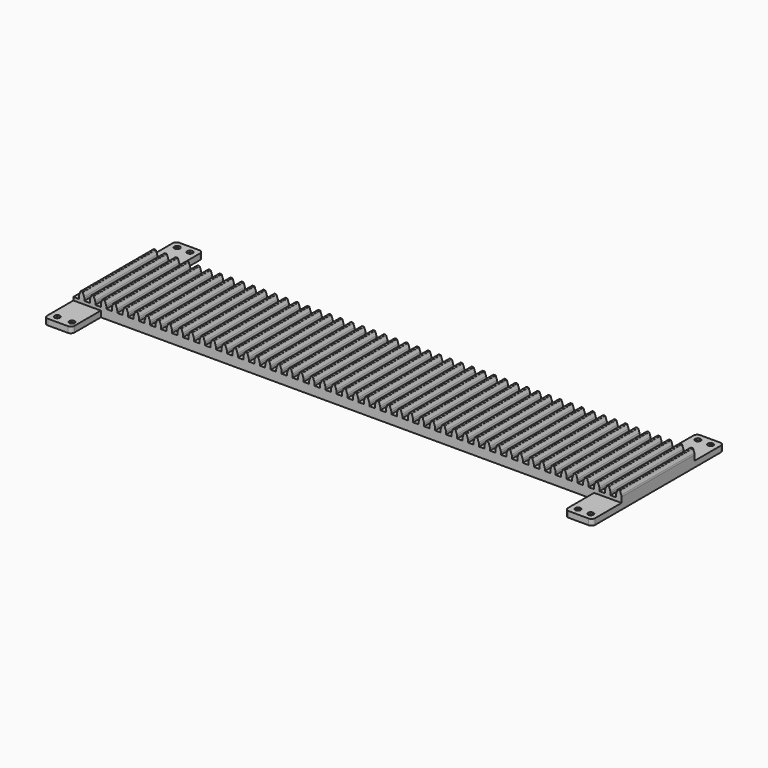
from build123d import *

# Parameters (mm, degrees)
F1_DEPTH  = 127
F2_W      = 38.1
F2_H      = 8.255
F3_DEPTH  = 50.8
F4_R      = 2.54
F5_DEPTH  = 8.256
F6_R      = 3.81
F7_DEPTH  = 2.54
F8_R      = 5.08
F9_W      = 38.1
F9_H      = 8.255
F10_DEPTH = 50.8
F11_R     = 2.54
F12_DEPTH = 8.256
F13_R     = 3.81
F14_DEPTH = 2.54
F15_R     = 5.08
F16_W     = 38.1
F16_H     = 8.255
F17_DEPTH = 50.8
F18_R     = 2.54
F19_DEPTH = 8.256
F20_R     = 3.81
F20_R_2   = 2.54
F21_DEPTH = 2.54
F22_R     = 5.08
F23_W     = 38.1
F23_H     = 8.255
F24_DEPTH = 50.8
F25_R     = 2.54
F26_DEPTH = 8.256
F27_R     = 3.81
F28_DEPTH = 2.54
F29_R     = 5.08


with BuildPart() as f1:
    # F0 (on Front) → F1 (new body)
    with BuildSketch(Plane.XZ):
        Polygon((0, 12.7), (0, 0), (762, 0), (762, 12.7), (754.38, 12.7), (746.76, 12.7), (739.14, 12.7), (731.52, 12.7), (723.9, 12.7), (716.28, 12.7), (708.66, 12.7), (701.04, 12.7), (693.42, 12.7), (685.8, 12.7), (678.18, 12.7), (670.56, 12.7), (662.94, 12.7), (655.32, 12.7), (647.7, 12.7), (640.08, 12.7), (632.46, 12.7), (624.84, 12.7), (617.22, 12.7), (609.6, 12.7), (601.98, 12.7), (594.36, 12.7), (586.74, 12.7), (579.12, 12.7), (571.5, 12.7), (563.88, 12.7), (556.26, 12.7), (548.64, 12.7), (541.02, 12.7), (533.4, 12.7), (525.78, 12.7), (518.16, 12.7), (510.54, 12.7), (502.92, 12.7), (495.3, 12.7), (487.68, 12.7), (480.06, 12.7), (472.44, 12.7), (464.82, 12.7), (457.2, 12.7), (449.58, 12.7), (441.96, 12.7), (434.34, 12.7), (426.72, 12.7), (419.1, 12.7), (411.48, 12.7), (403.86, 12.7), (396.24, 12.7), (388.62, 12.7), (381, 12.7), (373.38, 12.7), (365.76, 12.7), (358.14, 12.7), (350.52, 12.7), (342.9, 12.7), (335.28, 12.7), (327.66, 12.7), (320.04, 12.7), (312.42, 12.7), (304.8, 12.7), (297.18, 12.7), (289.56, 12.7), (281.94, 12.7), (274.32, 12.7), (266.7, 12.7), (259.08, 12.7), (251.46, 12.7), (243.84, 12.7), (236.22, 12.7), (228.6, 12.7), (220.98, 12.7), (213.36, 12.7), (205.74, 12.7), (198.12, 12.7), (190.5, 12.7), (182.88, 12.7), (175.26, 12.7), (167.64, 12.7), (160.02, 12.7), (152.4, 12.7), (144.78, 12.7), (137.16, 12.7), (129.54, 12.7), (121.92, 12.7), (114.3, 12.7), (106.68, 12.7), (99.06, 12.7), (91.44, 12.7), (83.82, 12.7), (76.2, 12.7), (68.58, 12.7), (60.96, 12.7), (53.34, 12.7), (45.72, 12.7), (38.1, 12.7), (30.48, 12.7), (22.86, 12.7), (15.24, 12.7), (7.62, 12.7), align=None)
        with BuildLine():
            Line((754.38, 12.7), (762, 12.7))
            Line((762, 12.7), (762, 15.542724))
            ThreePointArc((762, 15.542724), (761.903529, 16.64539), (761.617048, 17.714552))
            Line((761.617048, 17.714552), (759.934349, 22.337728))
            ThreePointArc((759.934349, 22.337728), (759.643745, 22.716452), (759.188468, 22.86))
            Line((759.188468, 22.86), (758.19, 22.86))
            Line((758.19, 22.86), (757.191532, 22.86))
            ThreePointArc((757.191532, 22.86), (756.736255, 22.716452), (756.445651, 22.337728))
            Line((756.445651, 22.337728), (754.762952, 17.714552))
            ThreePointArc((754.762952, 17.714552), (754.476471, 16.64539), (754.38, 15.542724))
            Line((754.38, 15.542724), (754.38, 12.7))
        make_face()
        with BuildLine():
            Line((7.62, 15.542724), (7.62, 12.7))
            Line((7.62, 12.7), (15.24, 12.7))
            Line((15.24, 12.7), (15.24, 15.542724))
            ThreePointArc((15.24, 15.542724), (15.143529, 16.64539), (14.857048, 17.714552))
            Line((14.857048, 17.714552), (13.174349, 22.337728))
            ThreePointArc((13.174349, 22.337728), (12.883745, 22.716452), (12.428468, 22.86))
            Line((12.428468, 22.86), (11.43, 22.86))
            Line((11.43, 22.86), (10.431532, 22.86))
            ThreePointArc((10.431532, 22.86), (9.976255, 22.716452), (9.685651, 22.337728))
            Line((9.685651, 22.337728), (8.002952, 17.714552))
            ThreePointArc((8.002952, 17.714552), (7.716471, 16.64539), (7.62, 15.542724))
        make_face()
        with BuildLine():
            Line((739.14, 12.7), (746.76, 12.7))
            Line((746.76, 12.7), (746.76, 15.542724))
            ThreePointArc((746.76, 15.542724), (746.663529, 16.64539), (746.377048, 17.714552))
            Line((746.377048, 17.714552), (744.694349, 22.337728))
            ThreePointArc((744.694349, 22.337728), (744.403745, 22.716452), (743.948468, 22.86))
            Line((743.948468, 22.86), (742.95, 22.86))
            Line((742.95, 22.86), (741.951532, 22.86))
            ThreePointArc((741.951532, 22.86), (741.496255, 22.716452), (741.205651, 22.337728))
            Line((741.205651, 22.337728), (739.522952, 17.714552))
            ThreePointArc((739.522952, 17.714552), (739.236471, 16.64539), (739.14, 15.542724))
            Line((739.14, 15.542724), (739.14, 12.7))
        make_face()
        with BuildLine():
            Line((22.86, 15.542724), (22.86, 12.7))
            Line((22.86, 12.7), (30.48, 12.7))
            Line((30.48, 12.7), (30.48, 15.542724))
            ThreePointArc((30.48, 15.542724), (30.383529, 16.64539), (30.097048, 17.714552))
            Line((30.097048, 17.714552), (28.414349, 22.337728))
            ThreePointArc((28.414349, 22.337728), (28.123745, 22.716452), (27.668468, 22.86))
            Line((27.668468, 22.86), (26.67, 22.86))
            Line((26.67, 22.86), (25.671532, 22.86))
            ThreePointArc((25.671532, 22.86), (25.216255, 22.716452), (24.925651, 22.337728))
            Line((24.925651, 22.337728), (23.242952, 17.714552))
            ThreePointArc((23.242952, 17.714552), (22.956471, 16.64539), (22.86, 15.542724))
        make_face()
        with BuildLine():
            Line((723.9, 12.7), (731.52, 12.7))
            Line((731.52, 12.7), (731.52, 15.542724))
            ThreePointArc((731.52, 15.542724), (731.423529, 16.64539), (731.137048, 17.714552))
            Line((731.137048, 17.714552), (729.454349, 22.337728))
            ThreePointArc((729.454349, 22.337728), (729.163745, 22.716452), (728.708468, 22.86))
            Line((728.708468, 22.86), (727.71, 22.86))
            Line((727.71, 22.86), (726.711532, 22.86))
            ThreePointArc((726.711532, 22.86), (726.256255, 22.716452), (725.965651, 22.337728))
            Line((725.965651, 22.337728), (724.282952, 17.714552))
            ThreePointArc((724.282952, 17.714552), (723.996471, 16.64539), (723.9, 15.542724))
            Line((723.9, 15.542724), (723.9, 12.7))
        make_face()
        with BuildLine():
            Line((38.1, 15.542724), (38.1, 12.7))
            Line((38.1, 12.7), (45.72, 12.7))
            Line((45.72, 12.7), (45.72, 15.542724))
            ThreePointArc((45.72, 15.542724), (45.623529, 16.64539), (45.337048, 17.714552))
            Line((45.337048, 17.714552), (43.654349, 22.337728))
            ThreePointArc((43.654349, 22.337728), (43.363745, 22.716452), (42.908468, 22.86))
            Line((42.908468, 22.86), (41.91, 22.86))
            Line((41.91, 22.86), (40.911532, 22.86))
            ThreePointArc((40.911532, 22.86), (40.456255, 22.716452), (40.165651, 22.337728))
            Line((40.165651, 22.337728), (38.482952, 17.714552))
            ThreePointArc((38.482952, 17.714552), (38.196471, 16.64539), (38.1, 15.542724))
        make_face()
        with BuildLine():
            Line((708.66, 12.7), (716.28, 12.7))
            Line((716.28, 12.7), (716.28, 15.542724))
            ThreePointArc((716.28, 15.542724), (716.183529, 16.64539), (715.897048, 17.714552))
            Line((715.897048, 17.714552), (714.214349, 22.337728))
            ThreePointArc((714.214349, 22.337728), (713.923745, 22.716452), (713.468468, 22.86))
            Line((713.468468, 22.86), (712.47, 22.86))
            Line((712.47, 22.86), (711.471532, 22.86))
            ThreePointArc((711.471532, 22.86), (711.016255, 22.716452), (710.725651, 22.337728))
            Line((710.725651, 22.337728), (709.042952, 17.714552))
            ThreePointArc((709.042952, 17.714552), (708.756471, 16.64539), (708.66, 15.542724))
            Line((708.66, 15.542724), (708.66, 12.7))
        make_face()
        with BuildLine():
            Line((53.34, 15.542724), (53.34, 12.7))
            Line((53.34, 12.7), (60.96, 12.7))
            Line((60.96, 12.7), (60.96, 15.542724))
            ThreePointArc((60.96, 15.542724), (60.863529, 16.64539), (60.577048, 17.714552))
            Line((60.577048, 17.714552), (58.894349, 22.337728))
            ThreePointArc((58.894349, 22.337728), (58.603745, 22.716452), (58.148468, 22.86))
            Line((58.148468, 22.86), (57.15, 22.86))
            Line((57.15, 22.86), (56.151532, 22.86))
            ThreePointArc((56.151532, 22.86), (55.696255, 22.716452), (55.405651, 22.337728))
            Line((55.405651, 22.337728), (53.722952, 17.714552))
            ThreePointArc((53.722952, 17.714552), (53.436471, 16.64539), (53.34, 15.542724))
        make_face()
        with BuildLine():
            Line((693.42, 12.7), (701.04, 12.7))
            Line((701.04, 12.7), (701.04, 15.542724))
            ThreePointArc((701.04, 15.542724), (700.943529, 16.64539), (700.657048, 17.714552))
            Line((700.657048, 17.714552), (698.974349, 22.337728))
            ThreePointArc((698.974349, 22.337728), (698.683745, 22.716452), (698.228468, 22.86))
            Line((698.228468, 22.86), (697.23, 22.86))
            Line((697.23, 22.86), (696.231532, 22.86))
            ThreePointArc((696.231532, 22.86), (695.776255, 22.716452), (695.485651, 22.337728))
            Line((695.485651, 22.337728), (693.802952, 17.714552))
            ThreePointArc((693.802952, 17.714552), (693.516471, 16.64539), (693.42, 15.542724))
            Line((693.42, 15.542724), (693.42, 12.7))
        make_face()
        with BuildLine():
            Line((68.58, 15.542724), (68.58, 12.7))
            Line((68.58, 12.7), (76.2, 12.7))
            Line((76.2, 12.7), (76.2, 15.542724))
            ThreePointArc((76.2, 15.542724), (76.103529, 16.64539), (75.817048, 17.714552))
            Line((75.817048, 17.714552), (74.134349, 22.337728))
            ThreePointArc((74.134349, 22.337728), (73.843745, 22.716452), (73.388468, 22.86))
            Line((73.388468, 22.86), (72.39, 22.86))
            Line((72.39, 22.86), (71.391532, 22.86))
            ThreePointArc((71.391532, 22.86), (70.936255, 22.716452), (70.645651, 22.337728))
            Line((70.645651, 22.337728), (68.962952, 17.714552))
            ThreePointArc((68.962952, 17.714552), (68.676471, 16.64539), (68.58, 15.542724))
        make_face()
        with BuildLine():
            Line((678.18, 12.7), (685.8, 12.7))
            Line((685.8, 12.7), (685.8, 15.542724))
            ThreePointArc((685.8, 15.542724), (685.703529, 16.64539), (685.417048, 17.714552))
            Line((685.417048, 17.714552), (683.734349, 22.337728))
            ThreePointArc((683.734349, 22.337728), (683.443745, 22.716452), (682.988468, 22.86))
            Line((682.988468, 22.86), (681.99, 22.86))
            Line((681.99, 22.86), (680.991532, 22.86))
            ThreePointArc((680.991532, 22.86), (680.536255, 22.716452), (680.245651, 22.337728))
            Line((680.245651, 22.337728), (678.562952, 17.714552))
            ThreePointArc((678.562952, 17.714552), (678.276471, 16.64539), (678.18, 15.542724))
            Line((678.18, 15.542724), (678.18, 12.7))
        make_face()
        with BuildLine():
            Line((83.82, 15.542724), (83.82, 12.7))
            Line((83.82, 12.7), (91.44, 12.7))
            Line((91.44, 12.7), (91.44, 15.542724))
            ThreePointArc((91.44, 15.542724), (91.343529, 16.64539), (91.057048, 17.714552))
            Line((91.057048, 17.714552), (89.374349, 22.337728))
            ThreePointArc((89.374349, 22.337728), (89.083745, 22.716452), (88.628468, 22.86))
            Line((88.628468, 22.86), (87.63, 22.86))
            Line((87.63, 22.86), (86.631532, 22.86))
            ThreePointArc((86.631532, 22.86), (86.176255, 22.716452), (85.885651, 22.337728))
            Line((85.885651, 22.337728), (84.202952, 17.714552))
            ThreePointArc((84.202952, 17.714552), (83.916471, 16.64539), (83.82, 15.542724))
        make_face()
        with BuildLine():
            Line((662.94, 12.7), (670.56, 12.7))
            Line((670.56, 12.7), (670.56, 15.542724))
            ThreePointArc((670.56, 15.542724), (670.463529, 16.64539), (670.177048, 17.714552))
            Line((670.177048, 17.714552), (668.494349, 22.337728))
            ThreePointArc((668.494349, 22.337728), (668.203745, 22.716452), (667.748468, 22.86))
            Line((667.748468, 22.86), (666.75, 22.86))
            Line((666.75, 22.86), (665.751532, 22.86))
            ThreePointArc((665.751532, 22.86), (665.296255, 22.716452), (665.005651, 22.337728))
            Line((665.005651, 22.337728), (663.322952, 17.714552))
            ThreePointArc((663.322952, 17.714552), (663.036471, 16.64539), (662.94, 15.542724))
            Line((662.94, 15.542724), (662.94, 12.7))
        make_face()
        with BuildLine():
            Line((99.06, 15.542724), (99.06, 12.7))
            Line((99.06, 12.7), (106.68, 12.7))
            Line((106.68, 12.7), (106.68, 15.542724))
            ThreePointArc((106.68, 15.542724), (106.583529, 16.64539), (106.297048, 17.714552))
            Line((106.297048, 17.714552), (104.614349, 22.337728))
            ThreePointArc((104.614349, 22.337728), (104.323745, 22.716452), (103.868468, 22.86))
            Line((103.868468, 22.86), (102.87, 22.86))
            Line((102.87, 22.86), (101.871532, 22.86))
            ThreePointArc((101.871532, 22.86), (101.416255, 22.716452), (101.125651, 22.337728))
            Line((101.125651, 22.337728), (99.442952, 17.714552))
            ThreePointArc((99.442952, 17.714552), (99.156471, 16.64539), (99.06, 15.542724))
        make_face()
        with BuildLine():
            Line((647.7, 12.7), (655.32, 12.7))
            Line((655.32, 12.7), (655.32, 15.542724))
            ThreePointArc((655.32, 15.542724), (655.223529, 16.64539), (654.937048, 17.714552))
            Line((654.937048, 17.714552), (653.254349, 22.337728))
            ThreePointArc((653.254349, 22.337728), (652.963745, 22.716452), (652.508468, 22.86))
            Line((652.508468, 22.86), (651.51, 22.86))
            Line((651.51, 22.86), (650.511532, 22.86))
            ThreePointArc((650.511532, 22.86), (650.056255, 22.716452), (649.765651, 22.337728))
            Line((649.765651, 22.337728), (648.082952, 17.714552))
            ThreePointArc((648.082952, 17.714552), (647.796471, 16.64539), (647.7, 15.542724))
            Line((647.7, 15.542724), (647.7, 12.7))
        make_face()
        with BuildLine():
            Line((114.3, 15.542724), (114.3, 12.7))
            Line((114.3, 12.7), (121.92, 12.7))
            Line((121.92, 12.7), (121.92, 15.542724))
            ThreePointArc((121.92, 15.542724), (121.823529, 16.64539), (121.537048, 17.714552))
            Line((121.537048, 17.714552), (119.854349, 22.337728))
            ThreePointArc((119.854349, 22.337728), (119.563745, 22.716452), (119.108468, 22.86))
            Line((119.108468, 22.86), (118.11, 22.86))
            Line((118.11, 22.86), (117.111532, 22.86))
            ThreePointArc((117.111532, 22.86), (116.656255, 22.716452), (116.365651, 22.337728))
            Line((116.365651, 22.337728), (114.682952, 17.714552))
            ThreePointArc((114.682952, 17.714552), (114.396471, 16.64539), (114.3, 15.542724))
        make_face()
        with BuildLine():
            Line((632.46, 12.7), (640.08, 12.7))
            Line((640.08, 12.7), (640.08, 15.542724))
            ThreePointArc((640.08, 15.542724), (639.983529, 16.64539), (639.697048, 17.714552))
            Line((639.697048, 17.714552), (638.014349, 22.337728))
            ThreePointArc((638.014349, 22.337728), (637.723745, 22.716452), (637.268468, 22.86))
            Line((637.268468, 22.86), (636.27, 22.86))
            Line((636.27, 22.86), (635.271532, 22.86))
            ThreePointArc((635.271532, 22.86), (634.816255, 22.716452), (634.525651, 22.337728))
            Line((634.525651, 22.337728), (632.842952, 17.714552))
            ThreePointArc((632.842952, 17.714552), (632.556471, 16.64539), (632.46, 15.542724))
            Line((632.46, 15.542724), (632.46, 12.7))
        make_face()
        with BuildLine():
            Line((129.54, 15.542724), (129.54, 12.7))
            Line((129.54, 12.7), (137.16, 12.7))
            Line((137.16, 12.7), (137.16, 15.542724))
            ThreePointArc((137.16, 15.542724), (137.063529, 16.64539), (136.777048, 17.714552))
            Line((136.777048, 17.714552), (135.094349, 22.337728))
            ThreePointArc((135.094349, 22.337728), (134.803745, 22.716452), (134.348468, 22.86))
            Line((134.348468, 22.86), (133.35, 22.86))
            Line((133.35, 22.86), (132.351532, 22.86))
            ThreePointArc((132.351532, 22.86), (131.896255, 22.716452), (131.605651, 22.337728))
            Line((131.605651, 22.337728), (129.922952, 17.714552))
            ThreePointArc((129.922952, 17.714552), (129.636471, 16.64539), (129.54, 15.542724))
        make_face()
        with BuildLine():
            Line((617.22, 12.7), (624.84, 12.7))
            Line((624.84, 12.7), (624.84, 15.542724))
            ThreePointArc((624.84, 15.542724), (624.743529, 16.64539), (624.457048, 17.714552))
            Line((624.457048, 17.714552), (622.774349, 22.337728))
            ThreePointArc((622.774349, 22.337728), (622.483745, 22.716452), (622.028468, 22.86))
            Line((622.028468, 22.86), (621.03, 22.86))
            Line((621.03, 22.86), (620.031532, 22.86))
            ThreePointArc((620.031532, 22.86), (619.576255, 22.716452), (619.285651, 22.337728))
            Line((619.285651, 22.337728), (617.602952, 17.714552))
            ThreePointArc((617.602952, 17.714552), (617.316471, 16.64539), (617.22, 15.542724))
            Line((617.22, 15.542724), (617.22, 12.7))
        make_face()
        with BuildLine():
            Line((144.78, 15.542724), (144.78, 12.7))
            Line((144.78, 12.7), (152.4, 12.7))
            Line((152.4, 12.7), (152.4, 15.542724))
            ThreePointArc((152.4, 15.542724), (152.303529, 16.64539), (152.017048, 17.714552))
            Line((152.017048, 17.714552), (150.334349, 22.337728))
            ThreePointArc((150.334349, 22.337728), (150.043745, 22.716452), (149.588468, 22.86))
            Line((149.588468, 22.86), (148.59, 22.86))
            Line((148.59, 22.86), (147.591532, 22.86))
            ThreePointArc((147.591532, 22.86), (147.136255, 22.716452), (146.845651, 22.337728))
            Line((146.845651, 22.337728), (145.162952, 17.714552))
            ThreePointArc((145.162952, 17.714552), (144.876471, 16.64539), (144.78, 15.542724))
        make_face()
        with BuildLine():
            Line((601.98, 12.7), (609.6, 12.7))
            Line((609.6, 12.7), (609.6, 15.542724))
            ThreePointArc((609.6, 15.542724), (609.503529, 16.64539), (609.217048, 17.714552))
            Line((609.217048, 17.714552), (607.534349, 22.337728))
            ThreePointArc((607.534349, 22.337728), (607.243745, 22.716452), (606.788468, 22.86))
            Line((606.788468, 22.86), (605.79, 22.86))
            Line((605.79, 22.86), (604.791532, 22.86))
            ThreePointArc((604.791532, 22.86), (604.336255, 22.716452), (604.045651, 22.337728))
            Line((604.045651, 22.337728), (602.362952, 17.714552))
            ThreePointArc((602.362952, 17.714552), (602.076471, 16.64539), (601.98, 15.542724))
            Line((601.98, 15.542724), (601.98, 12.7))
        make_face()
        with BuildLine():
            Line((160.02, 15.542724), (160.02, 12.7))
            Line((160.02, 12.7), (167.64, 12.7))
            Line((167.64, 12.7), (167.64, 15.542724))
            ThreePointArc((167.64, 15.542724), (167.543529, 16.64539), (167.257048, 17.714552))
            Line((167.257048, 17.714552), (165.574349, 22.337728))
            ThreePointArc((165.574349, 22.337728), (165.283745, 22.716452), (164.828468, 22.86))
            Line((164.828468, 22.86), (163.83, 22.86))
            Line((163.83, 22.86), (162.831532, 22.86))
            ThreePointArc((162.831532, 22.86), (162.376255, 22.716452), (162.085651, 22.337728))
            Line((162.085651, 22.337728), (160.402952, 17.714552))
            ThreePointArc((160.402952, 17.714552), (160.116471, 16.64539), (160.02, 15.542724))
        make_face()
        with BuildLine():
            Line((586.74, 12.7), (594.36, 12.7))
            Line((594.36, 12.7), (594.36, 15.542724))
            ThreePointArc((594.36, 15.542724), (594.263529, 16.64539), (593.977048, 17.714552))
            Line((593.977048, 17.714552), (592.294349, 22.337728))
            ThreePointArc((592.294349, 22.337728), (592.003745, 22.716452), (591.548468, 22.86))
            Line((591.548468, 22.86), (590.55, 22.86))
            Line((590.55, 22.86), (589.551532, 22.86))
            ThreePointArc((589.551532, 22.86), (589.096255, 22.716452), (588.805651, 22.337728))
            Line((588.805651, 22.337728), (587.122952, 17.714552))
            ThreePointArc((587.122952, 17.714552), (586.836471, 16.64539), (586.74, 15.542724))
            Line((586.74, 15.542724), (586.74, 12.7))
        make_face()
        with BuildLine():
            Line((175.26, 15.542724), (175.26, 12.7))
            Line((175.26, 12.7), (182.88, 12.7))
            Line((182.88, 12.7), (182.88, 15.542724))
            ThreePointArc((182.88, 15.542724), (182.783529, 16.64539), (182.497048, 17.714552))
            Line((182.497048, 17.714552), (180.814349, 22.337728))
            ThreePointArc((180.814349, 22.337728), (180.523745, 22.716452), (180.068468, 22.86))
            Line((180.068468, 22.86), (179.07, 22.86))
            Line((179.07, 22.86), (178.071532, 22.86))
            ThreePointArc((178.071532, 22.86), (177.616255, 22.716452), (177.325651, 22.337728))
            Line((177.325651, 22.337728), (175.642952, 17.714552))
            ThreePointArc((175.642952, 17.714552), (175.356471, 16.64539), (175.26, 15.542724))
        make_face()
        with BuildLine():
            Line((571.5, 12.7), (579.12, 12.7))
            Line((579.12, 12.7), (579.12, 15.542724))
            ThreePointArc((579.12, 15.542724), (579.023529, 16.64539), (578.737048, 17.714552))
            Line((578.737048, 17.714552), (577.054349, 22.337728))
            ThreePointArc((577.054349, 22.337728), (576.763745, 22.716452), (576.308468, 22.86))
            Line((576.308468, 22.86), (575.31, 22.86))
            Line((575.31, 22.86), (574.311532, 22.86))
            ThreePointArc((574.311532, 22.86), (573.856255, 22.716452), (573.565651, 22.337728))
            Line((573.565651, 22.337728), (571.882952, 17.714552))
            ThreePointArc((571.882952, 17.714552), (571.596471, 16.64539), (571.5, 15.542724))
            Line((571.5, 15.542724), (571.5, 12.7))
        make_face()
        with BuildLine():
            Line((190.5, 15.542724), (190.5, 12.7))
            Line((190.5, 12.7), (198.12, 12.7))
            Line((198.12, 12.7), (198.12, 15.542724))
            ThreePointArc((198.12, 15.542724), (198.023529, 16.64539), (197.737048, 17.714552))
            Line((197.737048, 17.714552), (196.054349, 22.337728))
            ThreePointArc((196.054349, 22.337728), (195.763745, 22.716452), (195.308468, 22.86))
            Line((195.308468, 22.86), (194.31, 22.86))
            Line((194.31, 22.86), (193.311532, 22.86))
            ThreePointArc((193.311532, 22.86), (192.856255, 22.716452), (192.565651, 22.337728))
            Line((192.565651, 22.337728), (190.882952, 17.714552))
            ThreePointArc((190.882952, 17.714552), (190.596471, 16.64539), (190.5, 15.542724))
        make_face()
        with BuildLine():
            Line((556.26, 12.7), (563.88, 12.7))
            Line((563.88, 12.7), (563.88, 15.542724))
            ThreePointArc((563.88, 15.542724), (563.783529, 16.64539), (563.497048, 17.714552))
            Line((563.497048, 17.714552), (561.814349, 22.337728))
            ThreePointArc((561.814349, 22.337728), (561.523745, 22.716452), (561.068468, 22.86))
            Line((561.068468, 22.86), (560.07, 22.86))
            Line((560.07, 22.86), (559.071532, 22.86))
            ThreePointArc((559.071532, 22.86), (558.616255, 22.716452), (558.325651, 22.337728))
            Line((558.325651, 22.337728), (556.642952, 17.714552))
            ThreePointArc((556.642952, 17.714552), (556.356471, 16.64539), (556.26, 15.542724))
            Line((556.26, 15.542724), (556.26, 12.7))
        make_face()
        with BuildLine():
            Line((205.74, 15.542724), (205.74, 12.7))
            Line((205.74, 12.7), (213.36, 12.7))
            Line((213.36, 12.7), (213.36, 15.542724))
            ThreePointArc((213.36, 15.542724), (213.263529, 16.64539), (212.977048, 17.714552))
            Line((212.977048, 17.714552), (211.294349, 22.337728))
            ThreePointArc((211.294349, 22.337728), (211.003745, 22.716452), (210.548468, 22.86))
            Line((210.548468, 22.86), (209.55, 22.86))
            Line((209.55, 22.86), (208.551532, 22.86))
            ThreePointArc((208.551532, 22.86), (208.096255, 22.716452), (207.805651, 22.337728))
            Line((207.805651, 22.337728), (206.122952, 17.714552))
            ThreePointArc((206.122952, 17.714552), (205.836471, 16.64539), (205.74, 15.542724))
        make_face()
        with BuildLine():
            Line((541.02, 12.7), (548.64, 12.7))
            Line((548.64, 12.7), (548.64, 15.542724))
            ThreePointArc((548.64, 15.542724), (548.543529, 16.64539), (548.257048, 17.714552))
            Line((548.257048, 17.714552), (546.574349, 22.337728))
            ThreePointArc((546.574349, 22.337728), (546.283745, 22.716452), (545.828468, 22.86))
            Line((545.828468, 22.86), (544.83, 22.86))
            Line((544.83, 22.86), (543.831532, 22.86))
            ThreePointArc((543.831532, 22.86), (543.376255, 22.716452), (543.085651, 22.337728))
            Line((543.085651, 22.337728), (541.402952, 17.714552))
            ThreePointArc((541.402952, 17.714552), (541.116471, 16.64539), (541.02, 15.542724))
            Line((541.02, 15.542724), (541.02, 12.7))
        make_face()
        with BuildLine():
            Line((220.98, 15.542724), (220.98, 12.7))
            Line((220.98, 12.7), (228.6, 12.7))
            Line((228.6, 12.7), (228.6, 15.542724))
            ThreePointArc((228.6, 15.542724), (228.503529, 16.64539), (228.217048, 17.714552))
            Line((228.217048, 17.714552), (226.534349, 22.337728))
            ThreePointArc((226.534349, 22.337728), (226.243745, 22.716452), (225.788468, 22.86))
            Line((225.788468, 22.86), (224.79, 22.86))
            Line((224.79, 22.86), (223.791532, 22.86))
            ThreePointArc((223.791532, 22.86), (223.336255, 22.716452), (223.045651, 22.337728))
            Line((223.045651, 22.337728), (221.362952, 17.714552))
            ThreePointArc((221.362952, 17.714552), (221.076471, 16.64539), (220.98, 15.542724))
        make_face()
        with BuildLine():
            Line((525.78, 12.7), (533.4, 12.7))
            Line((533.4, 12.7), (533.4, 15.542724))
            ThreePointArc((533.4, 15.542724), (533.303529, 16.64539), (533.017048, 17.714552))
            Line((533.017048, 17.714552), (531.334349, 22.337728))
            ThreePointArc((531.334349, 22.337728), (531.043745, 22.716452), (530.588468, 22.86))
            Line((530.588468, 22.86), (529.59, 22.86))
            Line((529.59, 22.86), (528.591532, 22.86))
            ThreePointArc((528.591532, 22.86), (528.136255, 22.716452), (527.845651, 22.337728))
            Line((527.845651, 22.337728), (526.162952, 17.714552))
            ThreePointArc((526.162952, 17.714552), (525.876471, 16.64539), (525.78, 15.542724))
            Line((525.78, 15.542724), (525.78, 12.7))
        make_face()
        with BuildLine():
            Line((236.22, 15.542724), (236.22, 12.7))
            Line((236.22, 12.7), (243.84, 12.7))
            Line((243.84, 12.7), (243.84, 15.542724))
            ThreePointArc((243.84, 15.542724), (243.743529, 16.64539), (243.457048, 17.714552))
            Line((243.457048, 17.714552), (241.774349, 22.337728))
            ThreePointArc((241.774349, 22.337728), (241.483745, 22.716452), (241.028468, 22.86))
            Line((241.028468, 22.86), (240.03, 22.86))
            Line((240.03, 22.86), (239.031532, 22.86))
            ThreePointArc((239.031532, 22.86), (238.576255, 22.716452), (238.285651, 22.337728))
            Line((238.285651, 22.337728), (236.602952, 17.714552))
            ThreePointArc((236.602952, 17.714552), (236.316471, 16.64539), (236.22, 15.542724))
        make_face()
        with BuildLine():
            Line((510.54, 12.7), (518.16, 12.7))
            Line((518.16, 12.7), (518.16, 15.542724))
            ThreePointArc((518.16, 15.542724), (518.063529, 16.64539), (517.777048, 17.714552))
            Line((517.777048, 17.714552), (516.094349, 22.337728))
            ThreePointArc((516.094349, 22.337728), (515.803745, 22.716452), (515.348468, 22.86))
            Line((515.348468, 22.86), (514.35, 22.86))
            Line((514.35, 22.86), (513.351532, 22.86))
            ThreePointArc((513.351532, 22.86), (512.896255, 22.716452), (512.605651, 22.337728))
            Line((512.605651, 22.337728), (510.922952, 17.714552))
            ThreePointArc((510.922952, 17.714552), (510.636471, 16.64539), (510.54, 15.542724))
            Line((510.54, 15.542724), (510.54, 12.7))
        make_face()
        with BuildLine():
            Line((251.46, 15.542724), (251.46, 12.7))
            Line((251.46, 12.7), (259.08, 12.7))
            Line((259.08, 12.7), (259.08, 15.542724))
            ThreePointArc((259.08, 15.542724), (258.983529, 16.64539), (258.697048, 17.714552))
            Line((258.697048, 17.714552), (257.014349, 22.337728))
            ThreePointArc((257.014349, 22.337728), (256.723745, 22.716452), (256.268468, 22.86))
            Line((256.268468, 22.86), (255.27, 22.86))
            Line((255.27, 22.86), (254.271532, 22.86))
            ThreePointArc((254.271532, 22.86), (253.816255, 22.716452), (253.525651, 22.337728))
            Line((253.525651, 22.337728), (251.842952, 17.714552))
            ThreePointArc((251.842952, 17.714552), (251.556471, 16.64539), (251.46, 15.542724))
        make_face()
        with BuildLine():
            Line((495.3, 12.7), (502.92, 12.7))
            Line((502.92, 12.7), (502.92, 15.542724))
            ThreePointArc((502.92, 15.542724), (502.823529, 16.64539), (502.537048, 17.714552))
            Line((502.537048, 17.714552), (500.854349, 22.337728))
            ThreePointArc((500.854349, 22.337728), (500.563745, 22.716452), (500.108468, 22.86))
            Line((500.108468, 22.86), (499.11, 22.86))
            Line((499.11, 22.86), (498.111532, 22.86))
            ThreePointArc((498.111532, 22.86), (497.656255, 22.716452), (497.365651, 22.337728))
            Line((497.365651, 22.337728), (495.682952, 17.714552))
            ThreePointArc((495.682952, 17.714552), (495.396471, 16.64539), (495.3, 15.542724))
            Line((495.3, 15.542724), (495.3, 12.7))
        make_face()
        with BuildLine():
            Line((266.7, 15.542724), (266.7, 12.7))
            Line((266.7, 12.7), (274.32, 12.7))
            Line((274.32, 12.7), (274.32, 15.542724))
            ThreePointArc((274.32, 15.542724), (274.223529, 16.64539), (273.937048, 17.714552))
            Line((273.937048, 17.714552), (272.254349, 22.337728))
            ThreePointArc((272.254349, 22.337728), (271.963745, 22.716452), (271.508468, 22.86))
            Line((271.508468, 22.86), (270.51, 22.86))
            Line((270.51, 22.86), (269.511532, 22.86))
            ThreePointArc((269.511532, 22.86), (269.056255, 22.716452), (268.765651, 22.337728))
            Line((268.765651, 22.337728), (267.082952, 17.714552))
            ThreePointArc((267.082952, 17.714552), (266.796471, 16.64539), (266.7, 15.542724))
        make_face()
        with BuildLine():
            Line((480.06, 12.7), (487.68, 12.7))
            Line((487.68, 12.7), (487.68, 15.542724))
            ThreePointArc((487.68, 15.542724), (487.583529, 16.64539), (487.297048, 17.714552))
            Line((487.297048, 17.714552), (485.614349, 22.337728))
            ThreePointArc((485.614349, 22.337728), (485.323745, 22.716452), (484.868468, 22.86))
            Line((484.868468, 22.86), (483.87, 22.86))
            Line((483.87, 22.86), (482.871532, 22.86))
            ThreePointArc((482.871532, 22.86), (482.416255, 22.716452), (482.125651, 22.337728))
            Line((482.125651, 22.337728), (480.442952, 17.714552))
            ThreePointArc((480.442952, 17.714552), (480.156471, 16.64539), (480.06, 15.542724))
            Line((480.06, 15.542724), (480.06, 12.7))
        make_face()
        with BuildLine():
            Line((281.94, 15.542724), (281.94, 12.7))
            Line((281.94, 12.7), (289.56, 12.7))
            Line((289.56, 12.7), (289.56, 15.542724))
            ThreePointArc((289.56, 15.542724), (289.463529, 16.64539), (289.177048, 17.714552))
            Line((289.177048, 17.714552), (287.494349, 22.337728))
            ThreePointArc((287.494349, 22.337728), (287.203745, 22.716452), (286.748468, 22.86))
            Line((286.748468, 22.86), (285.75, 22.86))
            Line((285.75, 22.86), (284.751532, 22.86))
            ThreePointArc((284.751532, 22.86), (284.296255, 22.716452), (284.005651, 22.337728))
            Line((284.005651, 22.337728), (282.322952, 17.714552))
            ThreePointArc((282.322952, 17.714552), (282.036471, 16.64539), (281.94, 15.542724))
        make_face()
        with BuildLine():
            Line((464.82, 12.7), (472.44, 12.7))
            Line((472.44, 12.7), (472.44, 15.542724))
            ThreePointArc((472.44, 15.542724), (472.343529, 16.64539), (472.057048, 17.714552))
            Line((472.057048, 17.714552), (470.374349, 22.337728))
            ThreePointArc((470.374349, 22.337728), (470.083745, 22.716452), (469.628468, 22.86))
            Line((469.628468, 22.86), (468.63, 22.86))
            Line((468.63, 22.86), (467.631532, 22.86))
            ThreePointArc((467.631532, 22.86), (467.176255, 22.716452), (466.885651, 22.337728))
            Line((466.885651, 22.337728), (465.202952, 17.714552))
            ThreePointArc((465.202952, 17.714552), (464.916471, 16.64539), (464.82, 15.542724))
            Line((464.82, 15.542724), (464.82, 12.7))
        make_face()
        with BuildLine():
            Line((297.18, 15.542724), (297.18, 12.7))
            Line((297.18, 12.7), (304.8, 12.7))
            Line((304.8, 12.7), (304.8, 15.542724))
            ThreePointArc((304.8, 15.542724), (304.703529, 16.64539), (304.417048, 17.714552))
            Line((304.417048, 17.714552), (302.734349, 22.337728))
            ThreePointArc((302.734349, 22.337728), (302.443745, 22.716452), (301.988468, 22.86))
            Line((301.988468, 22.86), (300.99, 22.86))
            Line((300.99, 22.86), (299.991532, 22.86))
            ThreePointArc((299.991532, 22.86), (299.536255, 22.716452), (299.245651, 22.337728))
            Line((299.245651, 22.337728), (297.562952, 17.714552))
            ThreePointArc((297.562952, 17.714552), (297.276471, 16.64539), (297.18, 15.542724))
        make_face()
        with BuildLine():
            Line((449.58, 12.7), (457.2, 12.7))
            Line((457.2, 12.7), (457.2, 15.542724))
            ThreePointArc((457.2, 15.542724), (457.103529, 16.64539), (456.817048, 17.714552))
            Line((456.817048, 17.714552), (455.134349, 22.337728))
            ThreePointArc((455.134349, 22.337728), (454.843745, 22.716452), (454.388468, 22.86))
            Line((454.388468, 22.86), (453.39, 22.86))
            Line((453.39, 22.86), (452.391532, 22.86))
            ThreePointArc((452.391532, 22.86), (451.936255, 22.716452), (451.645651, 22.337728))
            Line((451.645651, 22.337728), (449.962952, 17.714552))
            ThreePointArc((449.962952, 17.714552), (449.676471, 16.64539), (449.58, 15.542724))
            Line((449.58, 15.542724), (449.58, 12.7))
        make_face()
        with BuildLine():
            Line((312.42, 15.542724), (312.42, 12.7))
            Line((312.42, 12.7), (320.04, 12.7))
            Line((320.04, 12.7), (320.04, 15.542724))
            ThreePointArc((320.04, 15.542724), (319.943529, 16.64539), (319.657048, 17.714552))
            Line((319.657048, 17.714552), (317.974349, 22.337728))
            ThreePointArc((317.974349, 22.337728), (317.683745, 22.716452), (317.228468, 22.86))
            Line((317.228468, 22.86), (316.23, 22.86))
            Line((316.23, 22.86), (315.231532, 22.86))
            ThreePointArc((315.231532, 22.86), (314.776255, 22.716452), (314.485651, 22.337728))
            Line((314.485651, 22.337728), (312.802952, 17.714552))
            ThreePointArc((312.802952, 17.714552), (312.516471, 16.64539), (312.42, 15.542724))
        make_face()
        with BuildLine():
            Line((434.34, 12.7), (441.96, 12.7))
            Line((441.96, 12.7), (441.96, 15.542724))
            ThreePointArc((441.96, 15.542724), (441.863529, 16.64539), (441.577048, 17.714552))
            Line((441.577048, 17.714552), (439.894349, 22.337728))
            ThreePointArc((439.894349, 22.337728), (439.603745, 22.716452), (439.148468, 22.86))
            Line((439.148468, 22.86), (438.15, 22.86))
            Line((438.15, 22.86), (437.151532, 22.86))
            ThreePointArc((437.151532, 22.86), (436.696255, 22.716452), (436.405651, 22.337728))
            Line((436.405651, 22.337728), (434.722952, 17.714552))
            ThreePointArc((434.722952, 17.714552), (434.436471, 16.64539), (434.34, 15.542724))
            Line((434.34, 15.542724), (434.34, 12.7))
        make_face()
        with BuildLine():
            Line((327.66, 15.542724), (327.66, 12.7))
            Line((327.66, 12.7), (335.28, 12.7))
            Line((335.28, 12.7), (335.28, 15.542724))
            ThreePointArc((335.28, 15.542724), (335.183529, 16.64539), (334.897048, 17.714552))
            Line((334.897048, 17.714552), (333.214349, 22.337728))
            ThreePointArc((333.214349, 22.337728), (332.923745, 22.716452), (332.468468, 22.86))
            Line((332.468468, 22.86), (331.47, 22.86))
            Line((331.47, 22.86), (330.471532, 22.86))
            ThreePointArc((330.471532, 22.86), (330.016255, 22.716452), (329.725651, 22.337728))
            Line((329.725651, 22.337728), (328.042952, 17.714552))
            ThreePointArc((328.042952, 17.714552), (327.756471, 16.64539), (327.66, 15.542724))
        make_face()
        with BuildLine():
            Line((419.1, 12.7), (426.72, 12.7))
            Line((426.72, 12.7), (426.72, 15.542724))
            ThreePointArc((426.72, 15.542724), (426.623529, 16.64539), (426.337048, 17.714552))
            Line((426.337048, 17.714552), (424.654349, 22.337728))
            ThreePointArc((424.654349, 22.337728), (424.363745, 22.716452), (423.908468, 22.86))
            Line((423.908468, 22.86), (422.91, 22.86))
            Line((422.91, 22.86), (421.911532, 22.86))
            ThreePointArc((421.911532, 22.86), (421.456255, 22.716452), (421.165651, 22.337728))
            Line((421.165651, 22.337728), (419.482952, 17.714552))
            ThreePointArc((419.482952, 17.714552), (419.196471, 16.64539), (419.1, 15.542724))
            Line((419.1, 15.542724), (419.1, 12.7))
        make_face()
        with BuildLine():
            Line((342.9, 15.542724), (342.9, 12.7))
            Line((342.9, 12.7), (350.52, 12.7))
            Line((350.52, 12.7), (350.52, 15.542724))
            ThreePointArc((350.52, 15.542724), (350.423529, 16.64539), (350.137048, 17.714552))
            Line((350.137048, 17.714552), (348.454349, 22.337728))
            ThreePointArc((348.454349, 22.337728), (348.163745, 22.716452), (347.708468, 22.86))
            Line((347.708468, 22.86), (346.71, 22.86))
            Line((346.71, 22.86), (345.711532, 22.86))
            ThreePointArc((345.711532, 22.86), (345.256255, 22.716452), (344.965651, 22.337728))
            Line((344.965651, 22.337728), (343.282952, 17.714552))
            ThreePointArc((343.282952, 17.714552), (342.996471, 16.64539), (342.9, 15.542724))
        make_face()
        with BuildLine():
            Line((403.86, 12.7), (411.48, 12.7))
            Line((411.48, 12.7), (411.48, 15.542724))
            ThreePointArc((411.48, 15.542724), (411.383529, 16.64539), (411.097048, 17.714552))
            Line((411.097048, 17.714552), (409.414349, 22.337728))
            ThreePointArc((409.414349, 22.337728), (409.123745, 22.716452), (408.668468, 22.86))
            Line((408.668468, 22.86), (407.67, 22.86))
            Line((407.67, 22.86), (406.671532, 22.86))
            ThreePointArc((406.671532, 22.86), (406.216255, 22.716452), (405.925651, 22.337728))
            Line((405.925651, 22.337728), (404.242952, 17.714552))
            ThreePointArc((404.242952, 17.714552), (403.956471, 16.64539), (403.86, 15.542724))
            Line((403.86, 15.542724), (403.86, 12.7))
        make_face()
        with BuildLine():
            Line((358.14, 15.542724), (358.14, 12.7))
            Line((358.14, 12.7), (365.76, 12.7))
            Line((365.76, 12.7), (365.76, 15.542724))
            ThreePointArc((365.76, 15.542724), (365.663529, 16.64539), (365.377048, 17.714552))
            Line((365.377048, 17.714552), (363.694349, 22.337728))
            ThreePointArc((363.694349, 22.337728), (363.403745, 22.716452), (362.948468, 22.86))
            Line((362.948468, 22.86), (361.95, 22.86))
            Line((361.95, 22.86), (360.951532, 22.86))
            ThreePointArc((360.951532, 22.86), (360.496255, 22.716452), (360.205651, 22.337728))
            Line((360.205651, 22.337728), (358.522952, 17.714552))
            ThreePointArc((358.522952, 17.714552), (358.236471, 16.64539), (358.14, 15.542724))
        make_face()
        with BuildLine():
            Line((388.62, 12.7), (396.24, 12.7))
            Line((396.24, 12.7), (396.24, 15.542724))
            ThreePointArc((396.24, 15.542724), (396.143529, 16.64539), (395.857048, 17.714552))
            Line((395.857048, 17.714552), (394.174349, 22.337728))
            ThreePointArc((394.174349, 22.337728), (393.883745, 22.716452), (393.428468, 22.86))
            Line((393.428468, 22.86), (392.43, 22.86))
            Line((392.43, 22.86), (391.431532, 22.86))
            ThreePointArc((391.431532, 22.86), (390.976255, 22.716452), (390.685651, 22.337728))
            Line((390.685651, 22.337728), (389.002952, 17.714552))
            ThreePointArc((389.002952, 17.714552), (388.716471, 16.64539), (388.62, 15.542724))
            Line((388.62, 15.542724), (388.62, 12.7))
        make_face()
        with BuildLine():
            Line((373.38, 15.542724), (373.38, 12.7))
            Line((373.38, 12.7), (381, 12.7))
            Line((381, 12.7), (381, 15.542724))
            ThreePointArc((381, 15.542724), (380.903529, 16.64539), (380.617048, 17.714552))
            Line((380.617048, 17.714552), (378.934349, 22.337728))
            ThreePointArc((378.934349, 22.337728), (378.643745, 22.716452), (378.188468, 22.86))
            Line((378.188468, 22.86), (377.19, 22.86))
            Line((377.19, 22.86), (376.191532, 22.86))
            ThreePointArc((376.191532, 22.86), (375.736255, 22.716452), (375.445651, 22.337728))
            Line((375.445651, 22.337728), (373.762952, 17.714552))
            ThreePointArc((373.762952, 17.714552), (373.476471, 16.64539), (373.38, 15.542724))
        make_face()
        Polygon((0, 12.7), (0, 0), (762, 0), (762, 12.7), (754.38, 12.7), (746.76, 12.7), (739.14, 12.7), (731.52, 12.7), (723.9, 12.7), (716.28, 12.7), (708.66, 12.7), (701.04, 12.7), (693.42, 12.7), (685.8, 12.7), (678.18, 12.7), (670.56, 12.7), (662.94, 12.7), (655.32, 12.7), (647.7, 12.7), (640.08, 12.7), (632.46, 12.7), (624.84, 12.7), (617.22, 12.7), (609.6, 12.7), (601.98, 12.7), (594.36, 12.7), (586.74, 12.7), (579.12, 12.7), (571.5, 12.7), (563.88, 12.7), (556.26, 12.7), (548.64, 12.7), (541.02, 12.7), (533.4, 12.7), (525.78, 12.7), (518.16, 12.7), (510.54, 12.7), (502.92, 12.7), (495.3, 12.7), (487.68, 12.7), (480.06, 12.7), (472.44, 12.7), (464.82, 12.7), (457.2, 12.7), (449.58, 12.7), (441.96, 12.7), (434.34, 12.7), (426.72, 12.7), (419.1, 12.7), (411.48, 12.7), (403.86, 12.7), (396.24, 12.7), (388.62, 12.7), (381, 12.7), (373.38, 12.7), (365.76, 12.7), (358.14, 12.7), (350.52, 12.7), (342.9, 12.7), (335.28, 12.7), (327.66, 12.7), (320.04, 12.7), (312.42, 12.7), (304.8, 12.7), (297.18, 12.7), (289.56, 12.7), (281.94, 12.7), (274.32, 12.7), (266.7, 12.7), (259.08, 12.7), (251.46, 12.7), (243.84, 12.7), (236.22, 12.7), (228.6, 12.7), (220.98, 12.7), (213.36, 12.7), (205.74, 12.7), (198.12, 12.7), (190.5, 12.7), (182.88, 12.7), (175.26, 12.7), (167.64, 12.7), (160.02, 12.7), (152.4, 12.7), (144.78, 12.7), (137.16, 12.7), (129.54, 12.7), (121.92, 12.7), (114.3, 12.7), (106.68, 12.7), (99.06, 12.7), (91.44, 12.7), (83.82, 12.7), (76.2, 12.7), (68.58, 12.7), (60.96, 12.7), (53.34, 12.7), (45.72, 12.7), (38.1, 12.7), (30.48, 12.7), (22.86, 12.7), (15.24, 12.7), (7.62, 12.7), align=None)
    extrude(amount=F1_DEPTH)

    # F2 (on face) → F3 (join)
    with BuildSketch(Plane.XZ.offset(127)):
        with Locations((19.05, 4.1275)):
            Rectangle(F2_W, F2_H)
    extrude(amount=F3_DEPTH)

    # F4 (on face) → F5 (cut, through all)
    with BuildSketch(Plane.XY.offset(8.255)):
        with Locations((10.16, -167.64)):
            Circle(F4_R)
        with Locations((30.48, -167.64)):
            Circle(F4_R)
    extrude(amount=-F5_DEPTH, mode=Mode.SUBTRACT)

    # F6 (on face) → F7 (cut)
    with BuildSketch(Plane.XY.offset(8.255)):
        with Locations((10.16, -167.64)):
            Circle(F6_R)
        with Locations((30.48, -167.64)):
            Circle(F6_R)
    extrude(amount=-F7_DEPTH, mode=Mode.SUBTRACT)

    # F8
    f8_edges = [f1.edges().sort_by_distance(p)[0] for p in [
        (0, -177.8, 4.1275),
        (38.1, -177.8, 4.1275),
    ]]
    fillet(f8_edges, radius=F8_R)

    # F9 (on face) → F10 (join)
    with BuildSketch(Plane(origin=(0, 0, 0), x_dir=(-1, 0, 0), z_dir=(0, 1, 0))):
        with Locations((-19.05, 4.1275)):
            Rectangle(F9_W, F9_H)
    extrude(amount=F10_DEPTH)

    # F11 (on face) → F12 (cut, through all)
    with BuildSketch(Plane.XY.offset(8.255)):
        with Locations((10.16, 40.64)):
            Circle(F11_R)
        with Locations((27.94, 40.64)):
            Circle(F11_R)
    extrude(amount=-F12_DEPTH, mode=Mode.SUBTRACT)

    # F13 (on face) → F14 (cut)
    with BuildSketch(Plane.XY.offset(8.255)):
        with Locations((10.16, 40.64)):
            Circle(F13_R)
        with Locations((27.94, 40.64)):
            Circle(F13_R)
    extrude(amount=-F14_DEPTH, mode=Mode.SUBTRACT)

    # F15
    f15_edges = [f1.edges().sort_by_distance(p)[0] for p in [
        (38.1, 50.8, 4.1275),
        (0, 50.8, 4.1275),
    ]]
    fillet(f15_edges, radius=F15_R)

    # F16 (on face) → F17 (join)
    with BuildSketch(Plane(origin=(0, 0, 0), x_dir=(-1, 0, 0), z_dir=(0, 1, 0))):
        with Locations((-742.95, 4.1275)):
            Rectangle(F16_W, F16_H)
    extrude(amount=F17_DEPTH)

    # F18 (on face) → F19 (cut, through all)
    with BuildSketch(Plane.XY.offset(8.255)):
        with Locations((734.06, 40.64)):
            Circle(F18_R)
        with Locations((751.84, 40.64)):
            Circle(F18_R)
    extrude(amount=-F19_DEPTH, mode=Mode.SUBTRACT)

    # F20 (on face) → F21 (cut)
    with BuildSketch(Plane.XY.offset(8.255)):
        with Locations((734.06, 40.64)):
            Circle(F20_R)
        with Locations((734.06, 40.64)):
            Circle(F20_R_2, mode=Mode.SUBTRACT)
        with Locations((751.84, 40.64)):
            Circle(F20_R)
        with Locations((751.84, 40.64)):
            Circle(F20_R_2, mode=Mode.SUBTRACT)
    extrude(amount=-F21_DEPTH, mode=Mode.SUBTRACT)

    # F22
    f22_edges = [f1.edges().sort_by_distance(p)[0] for p in [
        (723.9, 50.8, 4.1275),
        (762, 50.8, 4.1275),
    ]]
    fillet(f22_edges, radius=F22_R)

    # F23 (on face) → F24 (join)
    with BuildSketch(Plane.XZ.offset(127)):
        with Locations((742.95, 4.1275)):
            Rectangle(F23_W, F23_H)
    extrude(amount=F24_DEPTH)

    # F25 (on face) → F26 (cut, through all)
    with BuildSketch(Plane.XY.offset(8.255)):
        with Locations((734.06, -167.64)):
            Circle(F25_R)
        with Locations((751.84, -167.64)):
            Circle(F25_R)
    extrude(amount=-F26_DEPTH, mode=Mode.SUBTRACT)

    # F27 (on face) → F28 (cut)
    with BuildSketch(Plane.XY.offset(8.255)):
        with Locations((734.06, -167.64)):
            Circle(F27_R)
        with Locations((751.84, -167.64)):
            Circle(F27_R)
    extrude(amount=-F28_DEPTH, mode=Mode.SUBTRACT)

    # F29
    f29_edges = [f1.edges().sort_by_distance(p)[0] for p in [
        (723.9, -177.8, 4.1275),
        (762, -177.8, 4.1275),
    ]]
    fillet(f29_edges, radius=F29_R)


solid = f1.part
